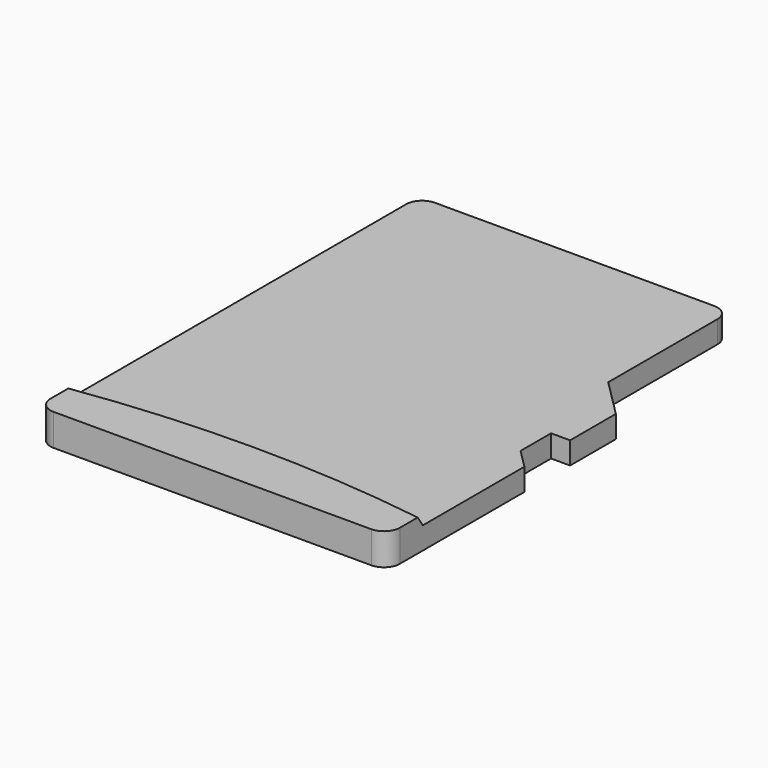
from build123d import *

# Parameters (mm, degrees)
BOX072_W         = 11
BOX072_H         = 15
BOX072_DEPTH     = 0.3
EXTRUDE017_DEPTH = 1


with BuildPart() as cone:
    # Cone → Cone (revolve)
    with BuildSketch(Plane(origin=(0, -36.4, 0.7), x_dir=(1, 0, 0), z_dir=(0, -1, 0))):
        Polygon((0, 0), (38.2, 0), (38, 0.3), (0, 0.3), align=None)
    revolve(axis=Axis((0, -36.4, 0.7), (0, 0, 1)))


with BuildPart() as cut018:
    # Box072 → Box072 (new body)
    with BuildSketch(Plane(origin=(-5.5, 0, 0.7), x_dir=(1, 0, 0), z_dir=(0, 0, 1))):
        with Locations((5.5, 7.5)):
            Rectangle(BOX072_W, BOX072_H)
    extrude(amount=BOX072_DEPTH)

    # Cut018: cut Cone
    add(cone.part, mode=Mode.SUBTRACT)


with BuildPart() as body007:
    # Sketch022 → Extrude017 (new body)
    with BuildSketch(Plane.XY):
        with BuildLine():
            Line((-5.5, 0.5), (-5.5, 14.5))
            ThreePointArc((-5, 15), (-5.353553, 14.853553), (-5.5, 14.5))
            Line((-5, 15), (3.8, 15))
            ThreePointArc((4.3, 14.5), (4.153553, 14.853553), (3.8, 15))
            Line((4.3, 14.5), (4.3, 10.2))
            Line((4.3, 10.2), (5.5, 9))
            Line((5.5, 9), (5.5, 7.2))
            Line((5.5, 7.2), (4.9, 7.2))
            Line((4.9, 7.2), (4.9, 6))
            Line((4.9, 6), (5.5, 5.4))
            Line((5.5, 5.4), (5.5, 0.5))
            ThreePointArc((5, 0), (5.353553, 0.146447), (5.5, 0.5))
            Line((5, 0), (-5, 0))
            ThreePointArc((-5.5, 0.5), (-5.353553, 0.146447), (-5, 0))
        make_face()
    extrude(amount=EXTRUDE017_DEPTH)

    # Cut019: cut Cut018
    add(cut018.part, mode=Mode.SUBTRACT)


solid = body007.part
